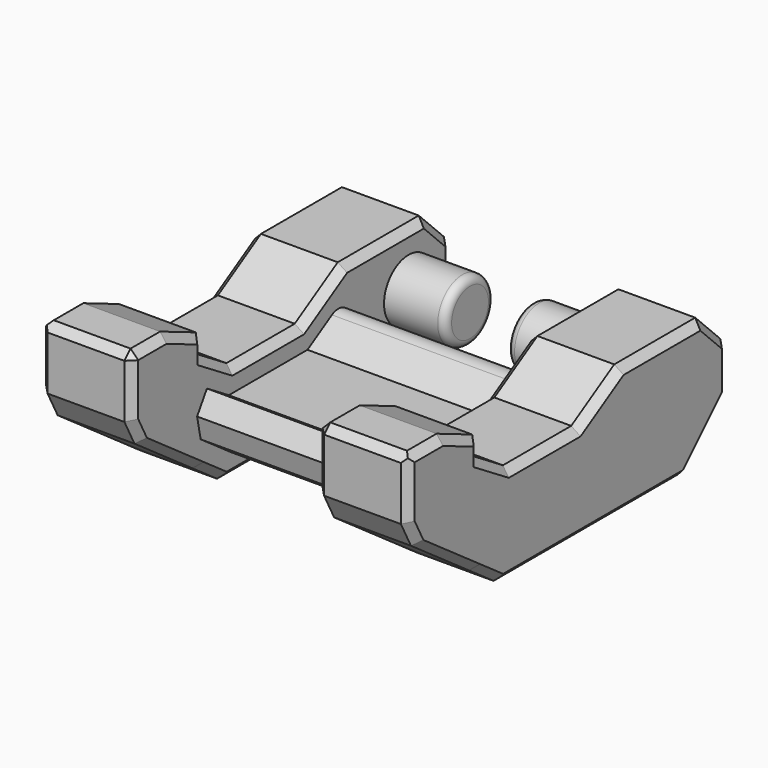
from build123d import *

# Parameters (mm, degrees)
F0_R      = 2
F1_DEPTH  = 6
F2_DEPTH  = 4
F3_DEPTH  = 2
F4_SIZE   = 1
F5_SIZE   = 1
F6_SIZE   = 0.5
F7_SIZE   = 0.5
F8_R      = 0.5
F11_DEPTH = 14


with BuildPart() as f1:
    # F0 (on Right) → F1 (new body)
    with BuildSketch(Plane.YZ):
        Polygon((1.4497474683, 3.5), (-1.4497474683, 3.5), (-5.139452645, 3.5), (-8.6422068998, 1.400000032), (-11.1441742629, 1.400000032), (-14.201618099, 1.400000032), (-16.696166385, 2.9513884384), (-16.696166385, 4.178149983), (-19.5980831925, 5.4049115275), (-22.5, 5.4049115275), (-22.5, 0.4049115275), (-16.9679636748, -3.5), (-14.9644660941, -4.9142135624), (0.0355339059, -4.9142135624), (1.4497474683, -3.5), (3.5, -1.4497474683), (3.5, 1.4497474683), align=None)
        with BuildLine():
            Line((-16.1029470532, -2.2745424348), (-17.7375390443, -1.120729131))
            Line((-17.7375390443, -1.120729131), (-16.4130871063, 1.008917641))
            Line((-16.4130871063, 1.008917641), (-14.6300078277, -0.099999968))
            Line((-14.6300078277, -0.099999968), (-11.1441742629, -0.099999968))
            Line((-11.1441742629, -0.099999968), (-8.2270111399, -0.099999968))
            Line((-8.2270111399, -0.099999968), (-6.2384550759, 1.092195478))
            ThreePointArc((-6.2384550759, 1.092195478), (-5.2314071062, 1.1046384988), (-4.7242568851, 0.2345240837))
            Line((-4.7242568851, 0.2345240837), (-4.7242568851, -2.4142135624))
            ThreePointArc((-4.7242568851, -2.4142135624), (-5.0171501039, -3.1213203436), (-5.7242568851, -3.4142135624))
            Line((-5.7242568851, -3.4142135624), (-14.4883900953, -3.4142135624))
            Line((-14.4883900953, -3.4142135624), (-16.1029470532, -2.2745424348))
        make_face(mode=Mode.SUBTRACT)
        Circle(F0_R, mode=Mode.SUBTRACT)
        with BuildLine():
            Line((-16.4130871063, 1.008917641), (-17.7375390443, -1.120729131))
            Line((-17.7375390443, -1.120729131), (-16.1029470532, -2.2745424348))
            Line((-16.1029470532, -2.2745424348), (-14.4883900953, -3.4142135624))
            Line((-14.4883900953, -3.4142135624), (-5.7242568851, -3.4142135624))
            ThreePointArc((-5.7242568851, -3.4142135624), (-5.0171501039, -3.1213203436), (-4.7242568851, -2.4142135624))
            Line((-4.7242568851, -2.4142135624), (-4.7242568851, 0.2345240837))
            ThreePointArc((-4.7242568851, 0.2345240837), (-5.2314071062, 1.1046384988), (-6.2384550759, 1.092195478))
            Line((-6.2384550759, 1.092195478), (-8.2270111399, -0.099999968))
            Line((-8.2270111399, -0.099999968), (-11.1441742629, -0.099999968))
            Line((-11.1441742629, -0.099999968), (-14.6300078277, -0.099999968))
            Line((-14.6300078277, -0.099999968), (-16.4130871063, 1.008917641))
        make_face()
        Circle(F0_R)
    extrude(amount=-F1_DEPTH)

    # F0 (on Right) → F2 (join)
    with BuildSketch(Plane.YZ):
        Circle(F0_R)
    extrude(amount=F2_DEPTH)

    # F0 (on Right) → F3 (cut)
    with BuildSketch(Plane.YZ):
        with BuildLine():
            Line((-16.4130871063, 1.008917641), (-17.7375390443, -1.120729131))
            Line((-17.7375390443, -1.120729131), (-16.1029470532, -2.2745424348))
            Line((-16.1029470532, -2.2745424348), (-14.4883900953, -3.4142135624))
            Line((-14.4883900953, -3.4142135624), (-5.7242568851, -3.4142135624))
            ThreePointArc((-5.7242568851, -3.4142135624), (-5.0171501039, -3.1213203436), (-4.7242568851, -2.4142135624))
            Line((-4.7242568851, -2.4142135624), (-4.7242568851, 0.2345240837))
            ThreePointArc((-4.7242568851, 0.2345240837), (-5.2314071062, 1.1046384988), (-6.2384550759, 1.092195478))
            Line((-6.2384550759, 1.092195478), (-8.2270111399, -0.099999968))
            Line((-8.2270111399, -0.099999968), (-11.1441742629, -0.099999968))
            Line((-11.1441742629, -0.099999968), (-14.6300078277, -0.099999968))
            Line((-14.6300078277, -0.099999968), (-16.4130871063, 1.008917641))
        make_face()
    extrude(amount=-F3_DEPTH, mode=Mode.SUBTRACT)

    # F4
    f4_edges = [f1.edges().sort_by_distance(p)[0] for p in [
        (-1, -17.737539, -1.120729),
    ]]
    chamfer(f4_edges, length=F4_SIZE)

    # F5
    f5_edges = [f1.edges().sort_by_distance(p)[0] for p in [
        (-3, -22.5, 0.404912),
    ]]
    chamfer(f5_edges, length=F5_SIZE)

    # F6
    f6_edges = [f1.edges().sort_by_distance(p)[0] for p in [
        (-6, -21.049042, 5.404912),
        (-6, -15.448892, 2.175694),
        (-6, -11.421912, 1.4),
        (-6, -6.89083, 2.45),
        (-6, -1.844853, 3.5),
        (-6, -22.091514, 0.616573),
        (-6, -18.323747, -2.54299),
        (-6, -22.5, 3.404912),
        (-6, 2.474874, 2.474874),
        (-6, 3.5, 0),
        (-6, 1.767767, -3.181981),
        (-6, -16.696166, 3.564769),
        (-6, -7.464466, -4.914214),
        (-6, -18.147125, 4.791531),
        (0, -18.147125, 4.791531),
    ]]
    chamfer(f6_edges, length=F6_SIZE)

    # F7
    f7_edges = [f1.edges().sort_by_distance(p)[0] for p in [
        (0, -11.421912, 1.4),
        (0, -6.89083, 2.45),
        (0, -15.448892, 2.175694),
        (0, -16.696166, 3.293348),
        (0, -21.691091, 5.404912),
        (0, -22.5, 3.404912),
        (0, -22.091514, 0.616573),
        (0, -18.323747, -2.54299),
        (0, -7.464466, -4.914214),
        (0, 1.767767, -3.181981),
        (0, 3.5, 0),
        (0, 2.474874, 2.474874),
        (0, -1.844853, 3.5),
        (-2.75, -22.5, 5.404912),
    ]]
    chamfer(f7_edges, length=F7_SIZE)

    # F8
    f8_edges = [f1.edges().sort_by_distance(p)[0] for p in [
        (4, -2, 0),
    ]]
    fillet(f8_edges, radius=F8_R)


with BuildPart() as f10_1:
    # F10: instance of F1
    add(f1.part.mirror(Plane.YZ.offset(6)))


with BuildPart() as f1_1:
    add(f1.part)

    # F11 (add): a face of the model
    f11_faces = [f10_1.part.faces().sort_by_distance(p)[0] for p in [
        (14, -10.4675316071, -1.4739709128),
    ]]

    add(f10_1.part)  # F11 merges F10_1
    extrude(f11_faces, amount=F11_DEPTH)


solid = f1_1.part
